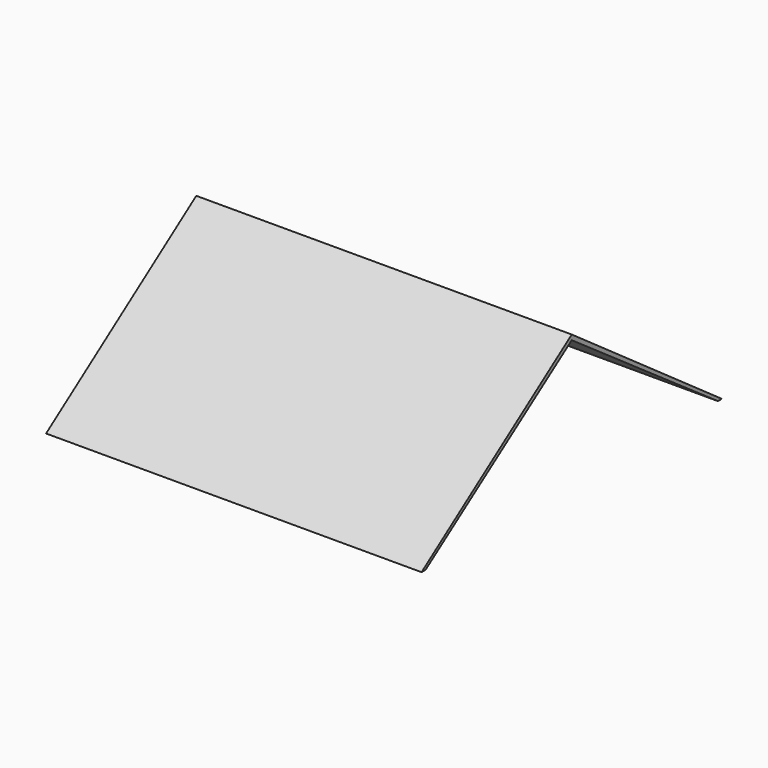
from build123d import *

# Parameters (mm, degrees)
F1_DEPTH = 190.5


with BuildPart() as f1:
    # F0 (on Right) → F1 (new body)
    with BuildSketch(Plane.YZ):
        Polygon((0, 67.456241), (-95.25, 0), (-92.71, 0), (0, 64.916241), align=None)
        Polygon((95.25, 0), (0, 67.456241), (0, 64.916241), (92.71, 0), align=None)
    extrude(amount=F1_DEPTH)


solid = f1.part
